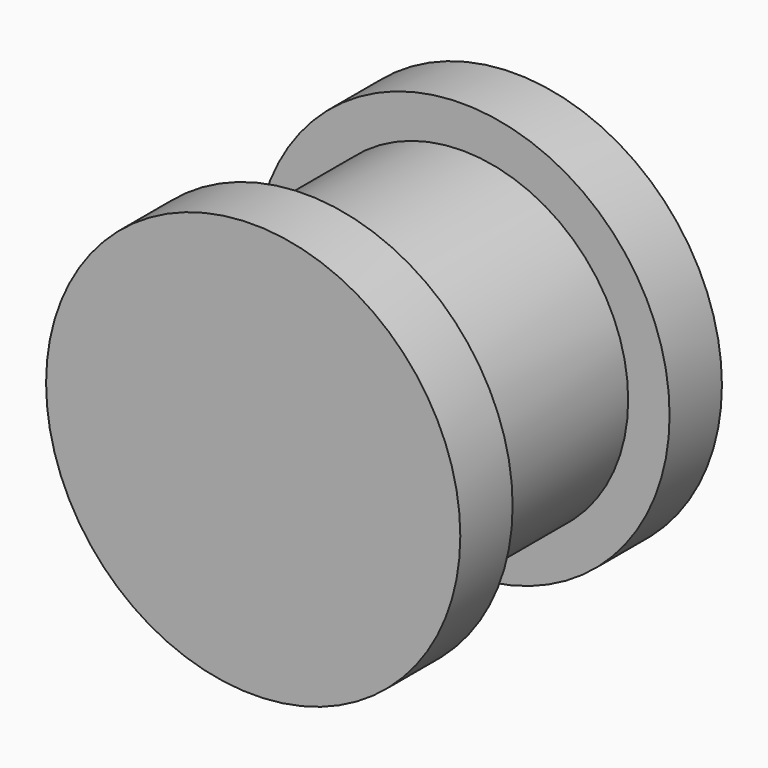
from build123d import *

# Parameters (mm, degrees)
F0_R     = 12.065
F1_DEPTH = 3.81
F2_R     = 9.652
F3_DEPTH = 11.43
F4_R     = 12.065
F5_DEPTH = 3.81


with BuildPart() as f1:
    # F0 (on Front) → F1 (new body)
    with BuildSketch(Plane.XZ):
        Circle(F0_R)
    extrude(amount=-F1_DEPTH)

    # F2 (on face) → F3 (join)
    with BuildSketch(Plane.XZ):
        Circle(F2_R)
    extrude(amount=F3_DEPTH)

    # F4 (on face) → F5 (join)
    with BuildSketch(Plane.XZ.offset(11.43)):
        Circle(F4_R)
    extrude(amount=F5_DEPTH)


solid = f1.part
